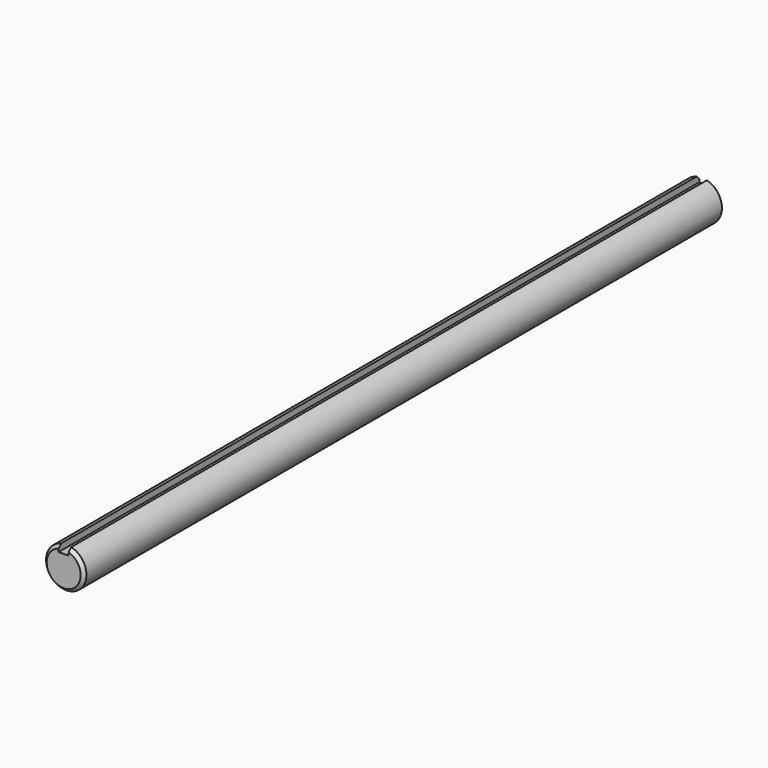
from build123d import *

# Parameters (mm, degrees)
F0_R     = 16
F1_DEPTH = 635
F2_SIZE  = 2.54
F3_W     = 8
F3_H     = 6
F4_DEPTH = 635.001


with BuildPart() as f1:
    # F0 (on Front) → F1 (new body)
    with BuildSketch(Plane.XZ):
        Circle(F0_R)
    extrude(amount=F1_DEPTH)

    # F2
    f2_edges = [f1.edges().sort_by_distance(p)[0] for p in [
        (-16, 0, 0),
        (-16, -635, 0),
    ]]
    chamfer(f2_edges, length=F2_SIZE)

    # F3 (on face) → F4 (cut, through all)
    with BuildSketch(Plane.XZ.offset(635)):
        with Locations((0, 13.46)):
            Rectangle(F3_W, F3_H)
    extrude(amount=-F4_DEPTH, mode=Mode.SUBTRACT)


solid = f1.part
